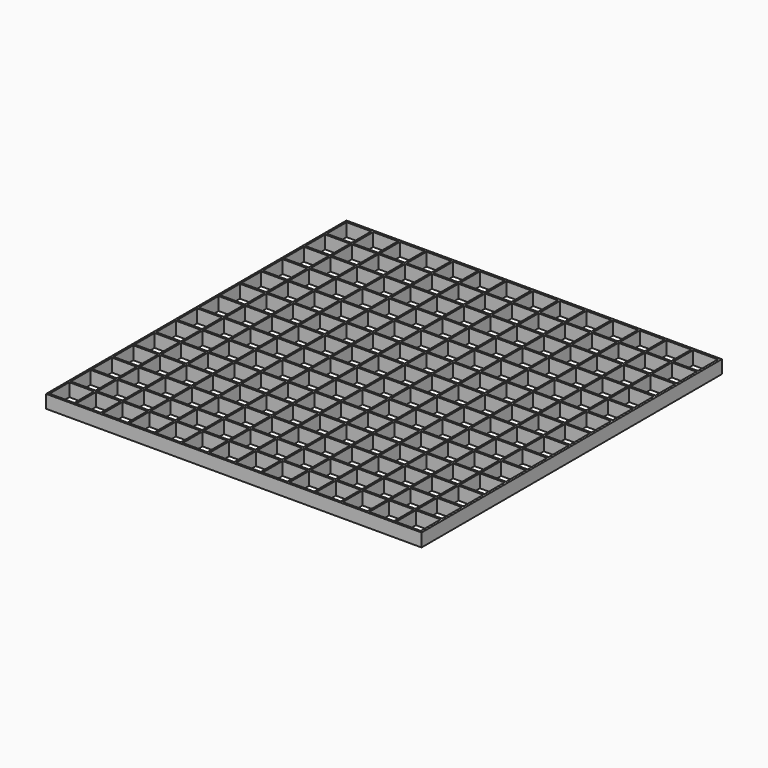
from build123d import *

# Parameters (mm, degrees)
F0_W     = 1000
F0_H     = 1000
F0_W_2   = 66
F0_H_2   = 66
F1_DEPTH = 35


with BuildPart() as f1:
    # F0 (on Top) → F1 (new body)
    with BuildSketch(Plane.XY):
        with Locations((500, 500)):
            Rectangle(F0_W, F0_H)
        with Locations((38, 38)):
            Rectangle(F0_W_2, F0_H_2, mode=Mode.SUBTRACT)
        with Locations((109, 38)):
            Rectangle(F0_W_2, F0_H_2, mode=Mode.SUBTRACT)
        with Locations((38, 109)):
            Rectangle(F0_W_2, F0_H_2, mode=Mode.SUBTRACT)
        with Locations((109, 109)):
            Rectangle(F0_W_2, F0_H_2, mode=Mode.SUBTRACT)
        with Locations((180, 38)):
            Rectangle(F0_W_2, F0_H_2, mode=Mode.SUBTRACT)
        with Locations((180, 109)):
            Rectangle(F0_W_2, F0_H_2, mode=Mode.SUBTRACT)
        with Locations((38, 180)):
            Rectangle(F0_W_2, F0_H_2, mode=Mode.SUBTRACT)
        with Locations((109, 180)):
            Rectangle(F0_W_2, F0_H_2, mode=Mode.SUBTRACT)
        with Locations((180, 180)):
            Rectangle(F0_W_2, F0_H_2, mode=Mode.SUBTRACT)
        with Locations((251, 38)):
            Rectangle(F0_W_2, F0_H_2, mode=Mode.SUBTRACT)
        with Locations((322, 38)):
            Rectangle(F0_W_2, F0_H_2, mode=Mode.SUBTRACT)
        with Locations((251, 109)):
            Rectangle(F0_W_2, F0_H_2, mode=Mode.SUBTRACT)
        with Locations((322, 109)):
            Rectangle(F0_W_2, F0_H_2, mode=Mode.SUBTRACT)
        with Locations((393, 38)):
            Rectangle(F0_W_2, F0_H_2, mode=Mode.SUBTRACT)
        with Locations((464, 38)):
            Rectangle(F0_W_2, F0_H_2, mode=Mode.SUBTRACT)
        with Locations((393, 109)):
            Rectangle(F0_W_2, F0_H_2, mode=Mode.SUBTRACT)
        with Locations((464, 109)):
            Rectangle(F0_W_2, F0_H_2, mode=Mode.SUBTRACT)
        with Locations((251, 180)):
            Rectangle(F0_W_2, F0_H_2, mode=Mode.SUBTRACT)
        with Locations((322, 180)):
            Rectangle(F0_W_2, F0_H_2, mode=Mode.SUBTRACT)
        with Locations((393, 180)):
            Rectangle(F0_W_2, F0_H_2, mode=Mode.SUBTRACT)
        with Locations((464, 180)):
            Rectangle(F0_W_2, F0_H_2, mode=Mode.SUBTRACT)
        with Locations((38, 251)):
            Rectangle(F0_W_2, F0_H_2, mode=Mode.SUBTRACT)
        with Locations((109, 251)):
            Rectangle(F0_W_2, F0_H_2, mode=Mode.SUBTRACT)
        with Locations((38, 322)):
            Rectangle(F0_W_2, F0_H_2, mode=Mode.SUBTRACT)
        with Locations((109, 322)):
            Rectangle(F0_W_2, F0_H_2, mode=Mode.SUBTRACT)
        with Locations((180, 251)):
            Rectangle(F0_W_2, F0_H_2, mode=Mode.SUBTRACT)
        with Locations((180, 322)):
            Rectangle(F0_W_2, F0_H_2, mode=Mode.SUBTRACT)
        with Locations((38, 393)):
            Rectangle(F0_W_2, F0_H_2, mode=Mode.SUBTRACT)
        with Locations((109, 393)):
            Rectangle(F0_W_2, F0_H_2, mode=Mode.SUBTRACT)
        with Locations((38, 464)):
            Rectangle(F0_W_2, F0_H_2, mode=Mode.SUBTRACT)
        with Locations((109, 464)):
            Rectangle(F0_W_2, F0_H_2, mode=Mode.SUBTRACT)
        with Locations((180, 393)):
            Rectangle(F0_W_2, F0_H_2, mode=Mode.SUBTRACT)
        with Locations((180, 464)):
            Rectangle(F0_W_2, F0_H_2, mode=Mode.SUBTRACT)
        with Locations((251, 251)):
            Rectangle(F0_W_2, F0_H_2, mode=Mode.SUBTRACT)
        with Locations((322, 251)):
            Rectangle(F0_W_2, F0_H_2, mode=Mode.SUBTRACT)
        with Locations((251, 322)):
            Rectangle(F0_W_2, F0_H_2, mode=Mode.SUBTRACT)
        with Locations((322, 322)):
            Rectangle(F0_W_2, F0_H_2, mode=Mode.SUBTRACT)
        with Locations((393, 251)):
            Rectangle(F0_W_2, F0_H_2, mode=Mode.SUBTRACT)
        with Locations((464, 251)):
            Rectangle(F0_W_2, F0_H_2, mode=Mode.SUBTRACT)
        with Locations((393, 322)):
            Rectangle(F0_W_2, F0_H_2, mode=Mode.SUBTRACT)
        with Locations((464, 322)):
            Rectangle(F0_W_2, F0_H_2, mode=Mode.SUBTRACT)
        with Locations((251, 393)):
            Rectangle(F0_W_2, F0_H_2, mode=Mode.SUBTRACT)
        with Locations((322, 393)):
            Rectangle(F0_W_2, F0_H_2, mode=Mode.SUBTRACT)
        with Locations((251, 464)):
            Rectangle(F0_W_2, F0_H_2, mode=Mode.SUBTRACT)
        with Locations((322, 464)):
            Rectangle(F0_W_2, F0_H_2, mode=Mode.SUBTRACT)
        with Locations((393, 393)):
            Rectangle(F0_W_2, F0_H_2, mode=Mode.SUBTRACT)
        with Locations((464, 393)):
            Rectangle(F0_W_2, F0_H_2, mode=Mode.SUBTRACT)
        with Locations((393, 464)):
            Rectangle(F0_W_2, F0_H_2, mode=Mode.SUBTRACT)
        with Locations((464, 464)):
            Rectangle(F0_W_2, F0_H_2, mode=Mode.SUBTRACT)
        with Locations((535, 38)):
            Rectangle(F0_W_2, F0_H_2, mode=Mode.SUBTRACT)
        with Locations((606, 38)):
            Rectangle(F0_W_2, F0_H_2, mode=Mode.SUBTRACT)
        with Locations((535, 109)):
            Rectangle(F0_W_2, F0_H_2, mode=Mode.SUBTRACT)
        with Locations((606, 109)):
            Rectangle(F0_W_2, F0_H_2, mode=Mode.SUBTRACT)
        with Locations((677, 38)):
            Rectangle(F0_W_2, F0_H_2, mode=Mode.SUBTRACT)
        with Locations((748, 38)):
            Rectangle(F0_W_2, F0_H_2, mode=Mode.SUBTRACT)
        with Locations((677, 109)):
            Rectangle(F0_W_2, F0_H_2, mode=Mode.SUBTRACT)
        with Locations((748, 109)):
            Rectangle(F0_W_2, F0_H_2, mode=Mode.SUBTRACT)
        with Locations((535, 180)):
            Rectangle(F0_W_2, F0_H_2, mode=Mode.SUBTRACT)
        with Locations((606, 180)):
            Rectangle(F0_W_2, F0_H_2, mode=Mode.SUBTRACT)
        with Locations((677, 180)):
            Rectangle(F0_W_2, F0_H_2, mode=Mode.SUBTRACT)
        with Locations((748, 180)):
            Rectangle(F0_W_2, F0_H_2, mode=Mode.SUBTRACT)
        with Locations((819, 38)):
            Rectangle(F0_W_2, F0_H_2, mode=Mode.SUBTRACT)
        with Locations((819, 109)):
            Rectangle(F0_W_2, F0_H_2, mode=Mode.SUBTRACT)
        with Locations((890, 38)):
            Rectangle(F0_W_2, F0_H_2, mode=Mode.SUBTRACT)
        with Locations((961, 38)):
            Rectangle(F0_W_2, F0_H_2, mode=Mode.SUBTRACT)
        with Locations((890, 109)):
            Rectangle(F0_W_2, F0_H_2, mode=Mode.SUBTRACT)
        with Locations((961, 109)):
            Rectangle(F0_W_2, F0_H_2, mode=Mode.SUBTRACT)
        with Locations((819, 180)):
            Rectangle(F0_W_2, F0_H_2, mode=Mode.SUBTRACT)
        with Locations((890, 180)):
            Rectangle(F0_W_2, F0_H_2, mode=Mode.SUBTRACT)
        with Locations((961, 180)):
            Rectangle(F0_W_2, F0_H_2, mode=Mode.SUBTRACT)
        with Locations((535, 251)):
            Rectangle(F0_W_2, F0_H_2, mode=Mode.SUBTRACT)
        with Locations((606, 251)):
            Rectangle(F0_W_2, F0_H_2, mode=Mode.SUBTRACT)
        with Locations((535, 322)):
            Rectangle(F0_W_2, F0_H_2, mode=Mode.SUBTRACT)
        with Locations((606, 322)):
            Rectangle(F0_W_2, F0_H_2, mode=Mode.SUBTRACT)
        with Locations((677, 251)):
            Rectangle(F0_W_2, F0_H_2, mode=Mode.SUBTRACT)
        with Locations((748, 251)):
            Rectangle(F0_W_2, F0_H_2, mode=Mode.SUBTRACT)
        with Locations((677, 322)):
            Rectangle(F0_W_2, F0_H_2, mode=Mode.SUBTRACT)
        with Locations((748, 322)):
            Rectangle(F0_W_2, F0_H_2, mode=Mode.SUBTRACT)
        with Locations((535, 393)):
            Rectangle(F0_W_2, F0_H_2, mode=Mode.SUBTRACT)
        with Locations((606, 393)):
            Rectangle(F0_W_2, F0_H_2, mode=Mode.SUBTRACT)
        with Locations((535, 464)):
            Rectangle(F0_W_2, F0_H_2, mode=Mode.SUBTRACT)
        with Locations((606, 464)):
            Rectangle(F0_W_2, F0_H_2, mode=Mode.SUBTRACT)
        with Locations((677, 393)):
            Rectangle(F0_W_2, F0_H_2, mode=Mode.SUBTRACT)
        with Locations((748, 393)):
            Rectangle(F0_W_2, F0_H_2, mode=Mode.SUBTRACT)
        with Locations((677, 464)):
            Rectangle(F0_W_2, F0_H_2, mode=Mode.SUBTRACT)
        with Locations((748, 464)):
            Rectangle(F0_W_2, F0_H_2, mode=Mode.SUBTRACT)
        with Locations((819, 251)):
            Rectangle(F0_W_2, F0_H_2, mode=Mode.SUBTRACT)
        with Locations((819, 322)):
            Rectangle(F0_W_2, F0_H_2, mode=Mode.SUBTRACT)
        with Locations((890, 251)):
            Rectangle(F0_W_2, F0_H_2, mode=Mode.SUBTRACT)
        with Locations((961, 251)):
            Rectangle(F0_W_2, F0_H_2, mode=Mode.SUBTRACT)
        with Locations((890, 322)):
            Rectangle(F0_W_2, F0_H_2, mode=Mode.SUBTRACT)
        with Locations((961, 322)):
            Rectangle(F0_W_2, F0_H_2, mode=Mode.SUBTRACT)
        with Locations((819, 393)):
            Rectangle(F0_W_2, F0_H_2, mode=Mode.SUBTRACT)
        with Locations((819, 464)):
            Rectangle(F0_W_2, F0_H_2, mode=Mode.SUBTRACT)
        with Locations((890, 393)):
            Rectangle(F0_W_2, F0_H_2, mode=Mode.SUBTRACT)
        with Locations((961, 393)):
            Rectangle(F0_W_2, F0_H_2, mode=Mode.SUBTRACT)
        with Locations((890, 464)):
            Rectangle(F0_W_2, F0_H_2, mode=Mode.SUBTRACT)
        with Locations((961, 464)):
            Rectangle(F0_W_2, F0_H_2, mode=Mode.SUBTRACT)
        with Locations((38, 535)):
            Rectangle(F0_W_2, F0_H_2, mode=Mode.SUBTRACT)
        with Locations((109, 535)):
            Rectangle(F0_W_2, F0_H_2, mode=Mode.SUBTRACT)
        with Locations((38, 606)):
            Rectangle(F0_W_2, F0_H_2, mode=Mode.SUBTRACT)
        with Locations((109, 606)):
            Rectangle(F0_W_2, F0_H_2, mode=Mode.SUBTRACT)
        with Locations((180, 535)):
            Rectangle(F0_W_2, F0_H_2, mode=Mode.SUBTRACT)
        with Locations((180, 606)):
            Rectangle(F0_W_2, F0_H_2, mode=Mode.SUBTRACT)
        with Locations((38, 677)):
            Rectangle(F0_W_2, F0_H_2, mode=Mode.SUBTRACT)
        with Locations((109, 677)):
            Rectangle(F0_W_2, F0_H_2, mode=Mode.SUBTRACT)
        with Locations((38, 748)):
            Rectangle(F0_W_2, F0_H_2, mode=Mode.SUBTRACT)
        with Locations((109, 748)):
            Rectangle(F0_W_2, F0_H_2, mode=Mode.SUBTRACT)
        with Locations((180, 677)):
            Rectangle(F0_W_2, F0_H_2, mode=Mode.SUBTRACT)
        with Locations((180, 748)):
            Rectangle(F0_W_2, F0_H_2, mode=Mode.SUBTRACT)
        with Locations((251, 535)):
            Rectangle(F0_W_2, F0_H_2, mode=Mode.SUBTRACT)
        with Locations((322, 535)):
            Rectangle(F0_W_2, F0_H_2, mode=Mode.SUBTRACT)
        with Locations((251, 606)):
            Rectangle(F0_W_2, F0_H_2, mode=Mode.SUBTRACT)
        with Locations((322, 606)):
            Rectangle(F0_W_2, F0_H_2, mode=Mode.SUBTRACT)
        with Locations((393, 535)):
            Rectangle(F0_W_2, F0_H_2, mode=Mode.SUBTRACT)
        with Locations((464, 535)):
            Rectangle(F0_W_2, F0_H_2, mode=Mode.SUBTRACT)
        with Locations((393, 606)):
            Rectangle(F0_W_2, F0_H_2, mode=Mode.SUBTRACT)
        with Locations((464, 606)):
            Rectangle(F0_W_2, F0_H_2, mode=Mode.SUBTRACT)
        with Locations((251, 677)):
            Rectangle(F0_W_2, F0_H_2, mode=Mode.SUBTRACT)
        with Locations((322, 677)):
            Rectangle(F0_W_2, F0_H_2, mode=Mode.SUBTRACT)
        with Locations((251, 748)):
            Rectangle(F0_W_2, F0_H_2, mode=Mode.SUBTRACT)
        with Locations((322, 748)):
            Rectangle(F0_W_2, F0_H_2, mode=Mode.SUBTRACT)
        with Locations((393, 677)):
            Rectangle(F0_W_2, F0_H_2, mode=Mode.SUBTRACT)
        with Locations((464, 677)):
            Rectangle(F0_W_2, F0_H_2, mode=Mode.SUBTRACT)
        with Locations((393, 748)):
            Rectangle(F0_W_2, F0_H_2, mode=Mode.SUBTRACT)
        with Locations((464, 748)):
            Rectangle(F0_W_2, F0_H_2, mode=Mode.SUBTRACT)
        with Locations((38, 819)):
            Rectangle(F0_W_2, F0_H_2, mode=Mode.SUBTRACT)
        with Locations((109, 819)):
            Rectangle(F0_W_2, F0_H_2, mode=Mode.SUBTRACT)
        with Locations((180, 819)):
            Rectangle(F0_W_2, F0_H_2, mode=Mode.SUBTRACT)
        with Locations((38, 890)):
            Rectangle(F0_W_2, F0_H_2, mode=Mode.SUBTRACT)
        with Locations((109, 890)):
            Rectangle(F0_W_2, F0_H_2, mode=Mode.SUBTRACT)
        with Locations((38, 961)):
            Rectangle(F0_W_2, F0_H_2, mode=Mode.SUBTRACT)
        with Locations((109, 961)):
            Rectangle(F0_W_2, F0_H_2, mode=Mode.SUBTRACT)
        with Locations((180, 890)):
            Rectangle(F0_W_2, F0_H_2, mode=Mode.SUBTRACT)
        with Locations((180, 961)):
            Rectangle(F0_W_2, F0_H_2, mode=Mode.SUBTRACT)
        with Locations((251, 819)):
            Rectangle(F0_W_2, F0_H_2, mode=Mode.SUBTRACT)
        with Locations((322, 819)):
            Rectangle(F0_W_2, F0_H_2, mode=Mode.SUBTRACT)
        with Locations((393, 819)):
            Rectangle(F0_W_2, F0_H_2, mode=Mode.SUBTRACT)
        with Locations((464, 819)):
            Rectangle(F0_W_2, F0_H_2, mode=Mode.SUBTRACT)
        with Locations((251, 890)):
            Rectangle(F0_W_2, F0_H_2, mode=Mode.SUBTRACT)
        with Locations((322, 890)):
            Rectangle(F0_W_2, F0_H_2, mode=Mode.SUBTRACT)
        with Locations((251, 961)):
            Rectangle(F0_W_2, F0_H_2, mode=Mode.SUBTRACT)
        with Locations((322, 961)):
            Rectangle(F0_W_2, F0_H_2, mode=Mode.SUBTRACT)
        with Locations((393, 890)):
            Rectangle(F0_W_2, F0_H_2, mode=Mode.SUBTRACT)
        with Locations((464, 890)):
            Rectangle(F0_W_2, F0_H_2, mode=Mode.SUBTRACT)
        with Locations((393, 961)):
            Rectangle(F0_W_2, F0_H_2, mode=Mode.SUBTRACT)
        with Locations((464, 961)):
            Rectangle(F0_W_2, F0_H_2, mode=Mode.SUBTRACT)
        with Locations((535, 535)):
            Rectangle(F0_W_2, F0_H_2, mode=Mode.SUBTRACT)
        with Locations((606, 535)):
            Rectangle(F0_W_2, F0_H_2, mode=Mode.SUBTRACT)
        with Locations((535, 606)):
            Rectangle(F0_W_2, F0_H_2, mode=Mode.SUBTRACT)
        with Locations((606, 606)):
            Rectangle(F0_W_2, F0_H_2, mode=Mode.SUBTRACT)
        with Locations((677, 535)):
            Rectangle(F0_W_2, F0_H_2, mode=Mode.SUBTRACT)
        with Locations((748, 535)):
            Rectangle(F0_W_2, F0_H_2, mode=Mode.SUBTRACT)
        with Locations((677, 606)):
            Rectangle(F0_W_2, F0_H_2, mode=Mode.SUBTRACT)
        with Locations((748, 606)):
            Rectangle(F0_W_2, F0_H_2, mode=Mode.SUBTRACT)
        with Locations((535, 677)):
            Rectangle(F0_W_2, F0_H_2, mode=Mode.SUBTRACT)
        with Locations((606, 677)):
            Rectangle(F0_W_2, F0_H_2, mode=Mode.SUBTRACT)
        with Locations((535, 748)):
            Rectangle(F0_W_2, F0_H_2, mode=Mode.SUBTRACT)
        with Locations((606, 748)):
            Rectangle(F0_W_2, F0_H_2, mode=Mode.SUBTRACT)
        with Locations((677, 677)):
            Rectangle(F0_W_2, F0_H_2, mode=Mode.SUBTRACT)
        with Locations((748, 677)):
            Rectangle(F0_W_2, F0_H_2, mode=Mode.SUBTRACT)
        with Locations((677, 748)):
            Rectangle(F0_W_2, F0_H_2, mode=Mode.SUBTRACT)
        with Locations((748, 748)):
            Rectangle(F0_W_2, F0_H_2, mode=Mode.SUBTRACT)
        with Locations((819, 535)):
            Rectangle(F0_W_2, F0_H_2, mode=Mode.SUBTRACT)
        with Locations((819, 606)):
            Rectangle(F0_W_2, F0_H_2, mode=Mode.SUBTRACT)
        with Locations((890, 535)):
            Rectangle(F0_W_2, F0_H_2, mode=Mode.SUBTRACT)
        with Locations((961, 535)):
            Rectangle(F0_W_2, F0_H_2, mode=Mode.SUBTRACT)
        with Locations((890, 606)):
            Rectangle(F0_W_2, F0_H_2, mode=Mode.SUBTRACT)
        with Locations((961, 606)):
            Rectangle(F0_W_2, F0_H_2, mode=Mode.SUBTRACT)
        with Locations((819, 677)):
            Rectangle(F0_W_2, F0_H_2, mode=Mode.SUBTRACT)
        with Locations((819, 748)):
            Rectangle(F0_W_2, F0_H_2, mode=Mode.SUBTRACT)
        with Locations((890, 677)):
            Rectangle(F0_W_2, F0_H_2, mode=Mode.SUBTRACT)
        with Locations((961, 677)):
            Rectangle(F0_W_2, F0_H_2, mode=Mode.SUBTRACT)
        with Locations((890, 748)):
            Rectangle(F0_W_2, F0_H_2, mode=Mode.SUBTRACT)
        with Locations((961, 748)):
            Rectangle(F0_W_2, F0_H_2, mode=Mode.SUBTRACT)
        with Locations((535, 819)):
            Rectangle(F0_W_2, F0_H_2, mode=Mode.SUBTRACT)
        with Locations((606, 819)):
            Rectangle(F0_W_2, F0_H_2, mode=Mode.SUBTRACT)
        with Locations((677, 819)):
            Rectangle(F0_W_2, F0_H_2, mode=Mode.SUBTRACT)
        with Locations((748, 819)):
            Rectangle(F0_W_2, F0_H_2, mode=Mode.SUBTRACT)
        with Locations((535, 890)):
            Rectangle(F0_W_2, F0_H_2, mode=Mode.SUBTRACT)
        with Locations((606, 890)):
            Rectangle(F0_W_2, F0_H_2, mode=Mode.SUBTRACT)
        with Locations((535, 961)):
            Rectangle(F0_W_2, F0_H_2, mode=Mode.SUBTRACT)
        with Locations((606, 961)):
            Rectangle(F0_W_2, F0_H_2, mode=Mode.SUBTRACT)
        with Locations((677, 890)):
            Rectangle(F0_W_2, F0_H_2, mode=Mode.SUBTRACT)
        with Locations((748, 890)):
            Rectangle(F0_W_2, F0_H_2, mode=Mode.SUBTRACT)
        with Locations((677, 961)):
            Rectangle(F0_W_2, F0_H_2, mode=Mode.SUBTRACT)
        with Locations((748, 961)):
            Rectangle(F0_W_2, F0_H_2, mode=Mode.SUBTRACT)
        with Locations((819, 819)):
            Rectangle(F0_W_2, F0_H_2, mode=Mode.SUBTRACT)
        with Locations((890, 819)):
            Rectangle(F0_W_2, F0_H_2, mode=Mode.SUBTRACT)
        with Locations((961, 819)):
            Rectangle(F0_W_2, F0_H_2, mode=Mode.SUBTRACT)
        with Locations((819, 890)):
            Rectangle(F0_W_2, F0_H_2, mode=Mode.SUBTRACT)
        with Locations((819, 961)):
            Rectangle(F0_W_2, F0_H_2, mode=Mode.SUBTRACT)
        with Locations((890, 890)):
            Rectangle(F0_W_2, F0_H_2, mode=Mode.SUBTRACT)
        with Locations((961, 890)):
            Rectangle(F0_W_2, F0_H_2, mode=Mode.SUBTRACT)
        with Locations((890, 961)):
            Rectangle(F0_W_2, F0_H_2, mode=Mode.SUBTRACT)
        with Locations((961, 961)):
            Rectangle(F0_W_2, F0_H_2, mode=Mode.SUBTRACT)
    extrude(amount=F1_DEPTH)


solid = f1.part
